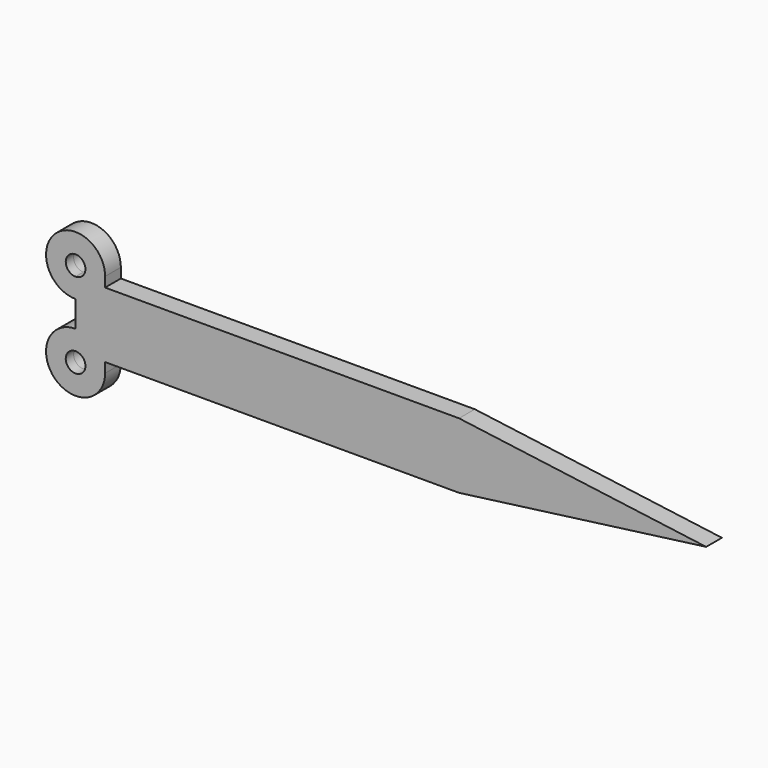
from build123d import *

# Parameters (mm, degrees)
F1_DEPTH = 1.5


with BuildPart() as f1:
    # F0 (on Front) → F1 (new body, symmetric)
    with BuildSketch(Plane.XZ):
        with BuildLine():
            ThreePointArc((-23.4997773468, 1.5999988765), (-31.1817578622, 4.7819793918), (-27.9997773468, -2.9000011235))
            ThreePointArc((-27.9997773468, -2.9000011235), (-24.8177968315, -1.5819816389), (-23.4997773468, 1.5999988765))
        make_face()
        with BuildLine():
            ThreePointArc((-27.9997773468, 0.0999988765), (-29.0604375186, 2.6606590482), (-26.4997773468, 1.5999988765))
            ThreePointArc((-26.4997773468, 1.5999988765), (-26.9391171751, 0.5393387047), (-27.9997773468, 0.0999988765))
        make_face(mode=Mode.SUBTRACT)
        with BuildLine():
            ThreePointArc((-23.4997773468, 1.5999988765), (-24.8177968315, -1.5819816389), (-27.9997773468, -2.9000011235))
            Line((-27.9997773468, -2.9000011235), (-27.9997773468, -4.9000011235))
            Line((-27.9997773468, -4.9000011235), (-27.9997773468, -6.9000011235))
            ThreePointArc((-27.9997773468, -6.9000011235), (-24.8177968315, -8.2180206082), (-23.4997773468, -11.4000011235))
            Line((-23.4997773468, -11.4000011235), (-23.4997773468, -9.9000011235))
            Line((-23.4997773468, -9.9000011235), (-23.4997773468, -4.9000011235))
            Line((-23.4997773468, -4.9000011235), (-23.4997773468, 0.0999988765))
            Line((-23.4997773468, 0.0999988765), (-23.4997773468, 1.5999988765))
        make_face()
        Polygon((30.4666368291, 0.0999988765), (-23.4997773468, 0.0999988765), (-23.4997773468, -4.9000011235), (-23.4997773468, -9.9000011235), (30.4666368291, -9.9000011235), (68.1362532328, -4.9000011235), align=None)
        with BuildLine():
            ThreePointArc((-23.4997773468, -11.4000011235), (-24.8177968315, -8.2180206082), (-27.9997773468, -6.9000011235))
            ThreePointArc((-27.9997773468, -6.9000011235), (-31.1817578622, -14.5819816389), (-23.4997773468, -11.4000011235))
        make_face()
        with BuildLine():
            ThreePointArc((-26.4997773468, -11.4000011235), (-29.0604375186, -12.4606612953), (-27.9997773468, -9.9000011235))
            ThreePointArc((-27.9997773468, -9.9000011235), (-26.9391171751, -10.3393409518), (-26.4997773468, -11.4000011235))
        make_face(mode=Mode.SUBTRACT)
    extrude(amount=F1_DEPTH, both=True)


solid = f1.part
